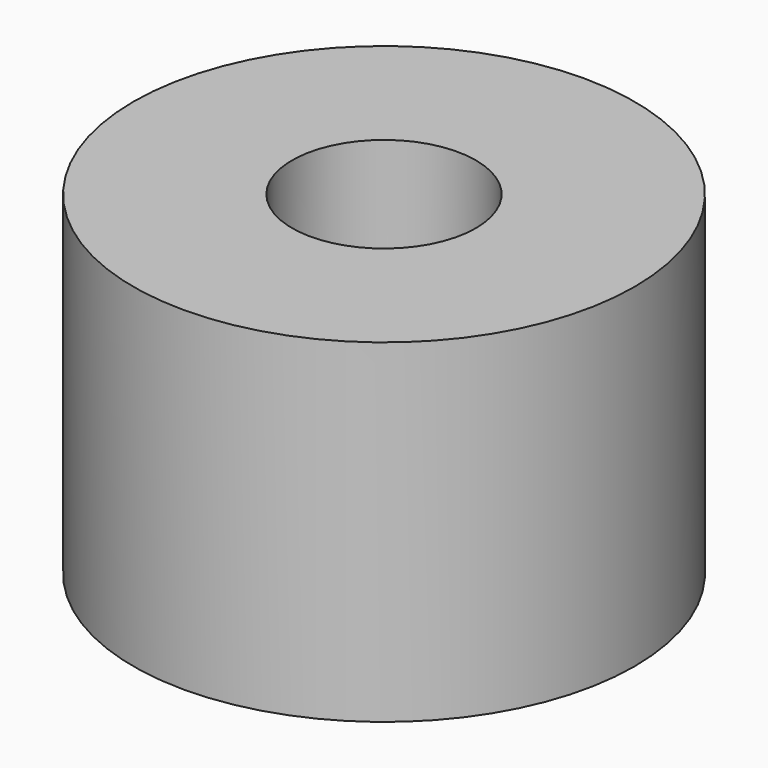
from build123d import *

# Parameters (mm, degrees)
CYLINDER1331_R     = 1
CYLINDER1331_DEPTH = 20
CYLINDER1333_R     = 1
CYLINDER1333_DEPTH = 20
CYLINDER1334_R     = 1
CYLINDER1334_DEPTH = 20
CYLINDER1327_R     = 1
CYLINDER1327_DEPTH = 20
TUBE118_R          = 7.5
TUBE118_R_2        = 2.75
TUBE118_DEPTH      = 10


with BuildPart() as obj1:
    # Cylinder1331 → Cylinder1331 (new body)
    with BuildSketch(Plane(origin=(4, -4, -88), x_dir=(0, 1, 0), z_dir=(0, 0, 1))):
        Circle(CYLINDER1331_R)
    extrude(amount=CYLINDER1331_DEPTH)


with BuildPart() as obj2:
    # Cylinder1333 → Cylinder1333 (new body)
    with BuildSketch(Plane(origin=(4, 4, -88), x_dir=(-1, 0, 0), z_dir=(0, 0, 1))):
        Circle(CYLINDER1333_R)
    extrude(amount=CYLINDER1333_DEPTH)


with BuildPart() as obj3:
    # Cylinder1334 → Cylinder1334 (new body)
    with BuildSketch(Plane(origin=(-4, 4, -88), x_dir=(0, -1, 0), z_dir=(0, 0, 1))):
        Circle(CYLINDER1334_R)
    extrude(amount=CYLINDER1334_DEPTH)


with BuildPart() as compound937:
    # Cylinder1327 → Cylinder1327 (new body)
    with BuildSketch(Plane(origin=(-4, -4, -88), x_dir=(1, 0, 0), z_dir=(0, 0, 1))):
        Circle(CYLINDER1327_R)
    extrude(amount=CYLINDER1327_DEPTH)

    # Compound937: union obj1, obj2, obj3
    add(obj1.part)
    add(obj2.part)
    add(obj3.part)


with BuildPart() as compound937_1:
    # Compound937 placement: moved
    add(compound937.part.moved(Location((0, 0, 91))))


with BuildPart() as cut478:
    # Tube118 → Tube118 (new body)
    with BuildSketch(Plane.XY.offset(19)):
        Circle(TUBE118_R)
        Circle(TUBE118_R_2, mode=Mode.SUBTRACT)
    extrude(amount=TUBE118_DEPTH)

    # Cut478: cut Compound937
    add(compound937_1.part, mode=Mode.SUBTRACT)


solid = cut478.part
